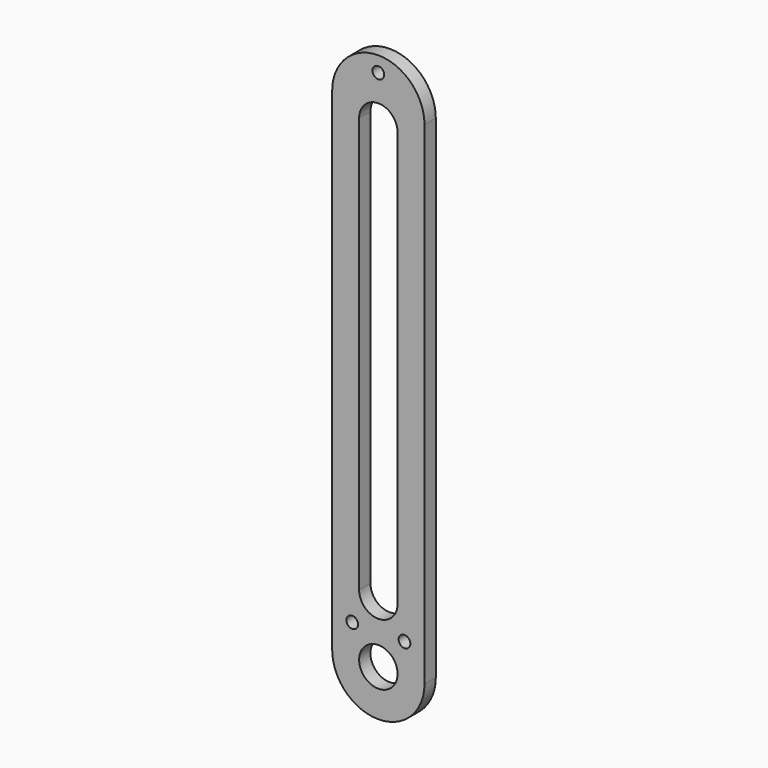
from build123d import *

# Parameters (mm, degrees)
F0_R     = 2.413
F0_R_2   = 7.9375
F1_DEPTH = 5.842


with BuildPart() as f1:
    # F0 (on Front) → F1 (new body)
    with BuildSketch(Plane.XZ):
        with BuildLine():
            Line((-19.05, 0), (-19.05, -203.2))
            ThreePointArc((-19.05, -203.2), (0, -222.25), (19.05, -203.2))
            Line((19.05, -203.2), (19.05, 0))
            ThreePointArc((19.05, 0), (0, 19.05), (-19.05, 0))
        make_face()
        with Locations((-10.795, -190.5)):
            Circle(F0_R, mode=Mode.SUBTRACT)
        with Locations((0, -203.2)):
            Circle(F0_R_2, mode=Mode.SUBTRACT)
        with Locations((10.795, -190.5)):
            Circle(F0_R, mode=Mode.SUBTRACT)
        with BuildLine():
            ThreePointArc((7.9375, -177.8), (0, -185.7375), (-7.9375, -177.8))
            Line((-7.9375, -177.8), (-7.9375, -6.35))
            ThreePointArc((-7.9375, -6.35), (0, 1.5875), (7.9375, -6.35))
            Line((7.9375, -6.35), (7.9375, -177.8))
        make_face(mode=Mode.SUBTRACT)
        with Locations((0, 12.7)):
            Circle(F0_R, mode=Mode.SUBTRACT)
    extrude(amount=F1_DEPTH)


solid = f1.part
